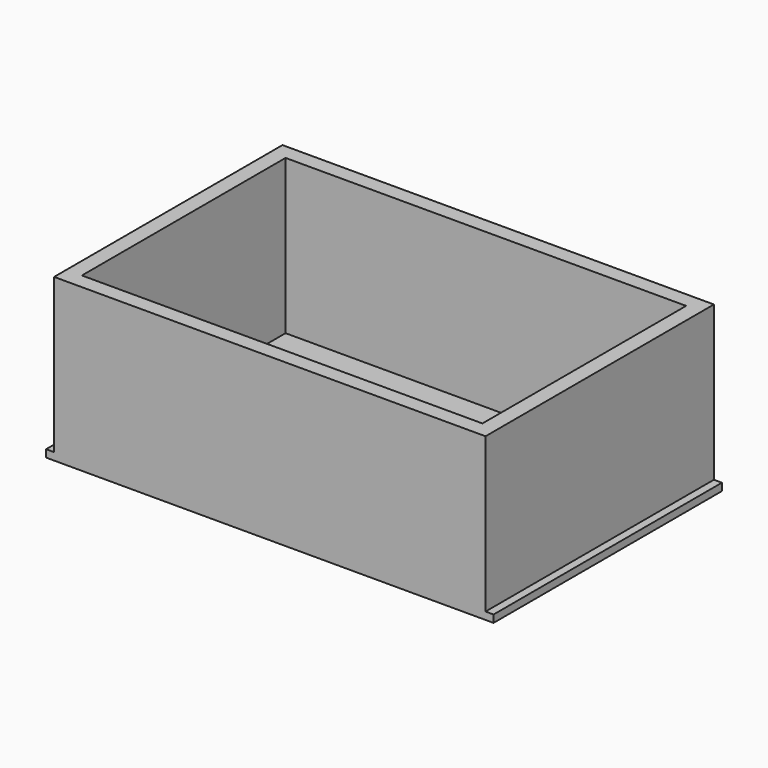
from build123d import *

# Parameters (mm, degrees)
F0_W     = 368.3
F0_H     = 234.95
F1_DEPTH = 6.096
F2_W     = 12.7
F2_H     = 209.55
F3_DEPTH = 127


with BuildPart() as f1:
    # F0 (on Top) → F1 (new body)
    with BuildSketch(Plane.XY):
        Rectangle(F0_W, F0_H)
    extrude(amount=F1_DEPTH)

    # F2 (on face) → F3 (join)
    with BuildSketch(Plane.XY.offset(6.096)):
        with Locations((171.196, 0)):
            Rectangle(F2_W, F2_H)
        Polygon((177.546, 104.775), (177.546, 117.475), (-177.546, 117.475), (-177.546, 104.775), (-164.846, 104.775), (164.846, 104.775), align=None)
        with Locations((-171.196, 0)):
            Rectangle(F2_W, F2_H)
        Polygon((177.546, -117.475), (177.546, -104.775), (164.846, -104.775), (-164.846, -104.775), (-177.546, -104.775), (-177.546, -117.475), align=None)
    extrude(amount=F3_DEPTH)


solid = f1.part
